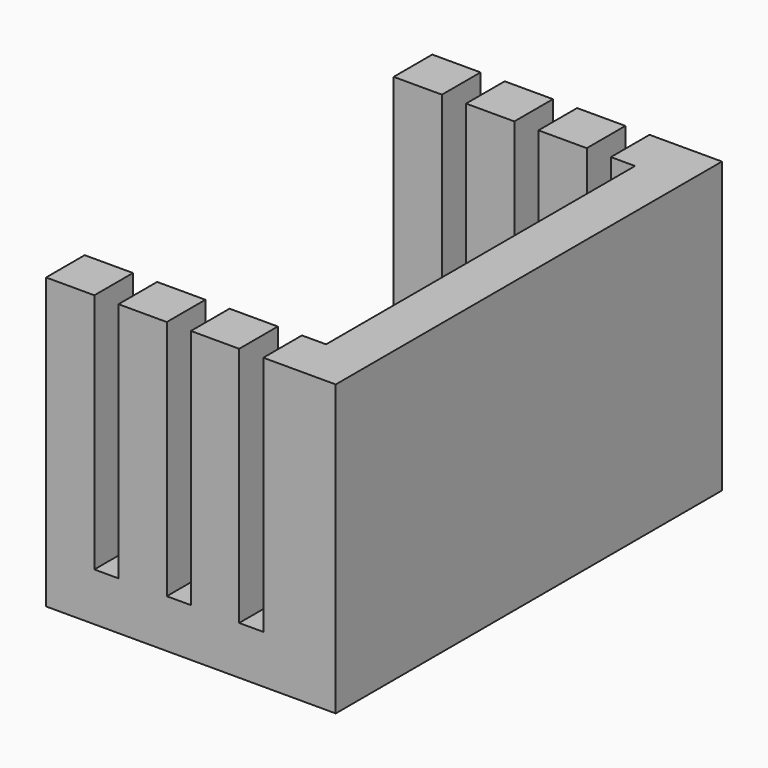
from build123d import *

# Parameters (mm, degrees)
F0_W     = 12
F0_H     = 20
F1_DEPTH = 2
F2_W     = 2
F2_H     = 2
F2_H_2   = 8
F3_DEPTH = 10
F4_R     = 2.5
F5_DEPTH = 25
F6_DEPTH = 10


with BuildPart() as f1:
    # F0 (on Top) → F1 (new body)
    with BuildSketch(Plane.XY):
        with Locations((-6, 10)):
            Rectangle(F0_W, F0_H)
    extrude(amount=F1_DEPTH)

    # F2 (on face) → F3 (join)
    with BuildSketch(Plane.XY.offset(2)):
        with Locations((-11, 19)):
            Rectangle(F2_W, F2_H)
        Polygon((0, 20), (-3, 20), (-3, 18), (-2, 18), (0, 18), align=None)
        with Locations((-5, 19)):
            Rectangle(F2_W, F2_H)
        with Locations((-8, 19)):
            Rectangle(F2_W, F2_H)
        with Locations((-1, 14)):
            Rectangle(F2_W, F2_H_2)
        with Locations((-1, 6)):
            Rectangle(F2_W, F2_H_2)
        with Locations((-11, 1)):
            Rectangle(F2_W, F2_H)
        with Locations((-8, 1)):
            Rectangle(F2_W, F2_H)
    extrude(amount=F3_DEPTH)

    # F4 (on face) → F5 (cut)
    with BuildSketch(Plane.XY.offset(2)):
        with Locations((-7, 10)):
            Circle(F4_R)
    extrude(amount=-F5_DEPTH, mode=Mode.SUBTRACT)

    # F2 (on face) → F6 (join)
    with BuildSketch(Plane.XY.offset(2)):
        with Locations((-5, 1)):
            Rectangle(F2_W, F2_H)
        Polygon((0, 2), (-2, 2), (-3, 2), (-3, 0), (0, 0), align=None)
    extrude(amount=F6_DEPTH)


solid = f1.part
